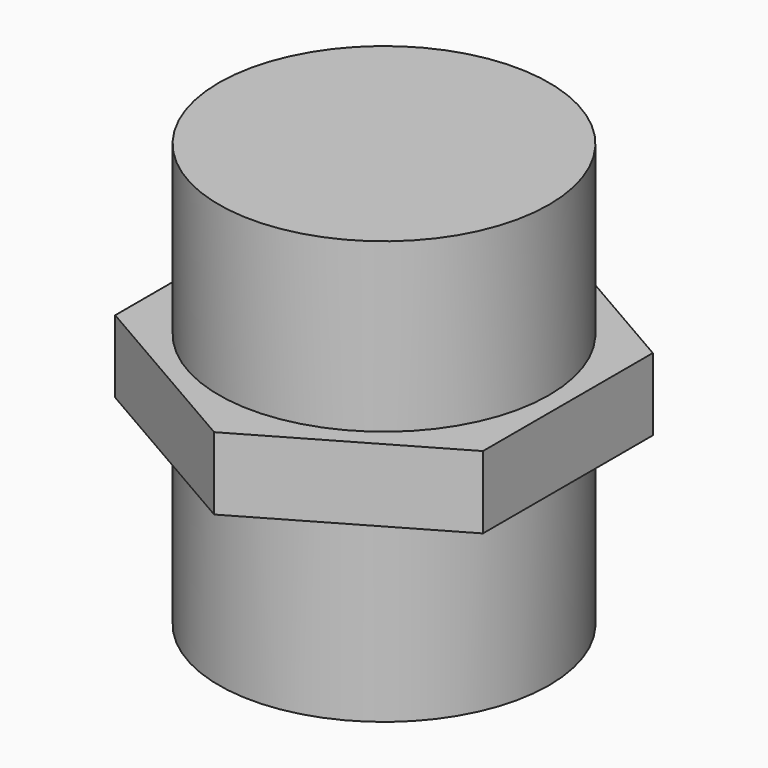
from build123d import *

# Parameters (mm, degrees)
EXTRUDE_DEPTH     = 4.83
CYLINDER002_R     = 11
CYLINDER002_DEPTH = 28.19


with BuildPart() as extrude_body:
    # Sketch → Extrude (new body)
    with BuildSketch(Plane.XY):
        Polygon((12.25, -7.072541), (12.25, 7.072541), (0, 14.145082), (-12.25, 7.072541), (-12.25, -7.072541), (0, -14.145082), align=None)
    extrude(amount=EXTRUDE_DEPTH)


with BuildPart() as extrude_body_1:
    # Extrude placement: moved
    add(extrude_body.part.moved(Location((0, 0, 12.19))))


with BuildPart() as powerplug:
    # Cylinder002 → Cylinder002 (new body)
    with BuildSketch(Plane.XY):
        Circle(CYLINDER002_R)
    extrude(amount=CYLINDER002_DEPTH)

    # Fusion: union Extrude body
    add(extrude_body_1.part)


with BuildPart() as powerplug_1:
    # Fusion placement: moved
    add(powerplug.part.moved(Location((-40, 25, -147))))


solid = powerplug_1.part
